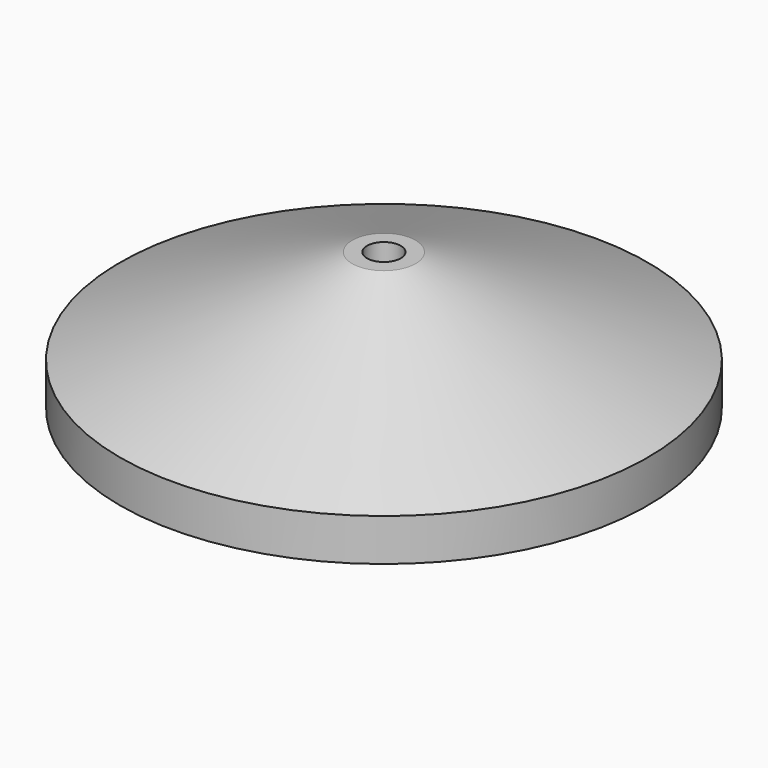
from build123d import *

# Parameters (mm, degrees)
SKETCH_W        = 12
SKETCH_H        = 12
POCKET_DEPTH    = 6
POCKET001_DEPTH = 3
CHAMFER_SIZE    = 1
CHAMFER001_SIZE = 1


with BuildPart() as part:
    # Sketch002 → Revolution (revolve)
    with BuildSketch(Plane.YZ):
        Polygon((1.6, 13), (1.6, 0), (25, 0), (25, 4), (3, 13), align=None)
    revolve(axis=Axis((0, 0, 0), (0, 0, 1)))

    # Sketch (on Face2 of Revolution) → Pocket (cut)
    with BuildSketch(Plane.YX):
        Rectangle(SKETCH_W, SKETCH_H)
    extrude(amount=-POCKET_DEPTH, mode=Mode.SUBTRACT)

    # Sketch003 (on Face2 of Pocket) → Pocket001 (cut)
    with BuildSketch(Plane.YX.offset(-6)):
        Polygon((3.1, 0), (1.55, 2.684679), (-1.55, 2.684679), (-3.1, 0), (-1.55, -2.684679), (1.55, -2.684679), align=None)
    extrude(amount=-POCKET001_DEPTH, mode=Mode.SUBTRACT)

    # Chamfer
    chamfer_edges = [part.edges().sort_by_distance(p)[0] for p in [
        (0, -6, 6),
        (0, 6, 6),
        (-6, 0, 6),
        (6, 0, 6),
    ]]
    chamfer(chamfer_edges, length=CHAMFER_SIZE)

    # Chamfer001
    chamfer001_edges = [part.edges().sort_by_distance(p)[0] for p in [
        (0, -1.6, 9),
    ]]
    chamfer(chamfer001_edges, length=CHAMFER001_SIZE)


solid = part.part
